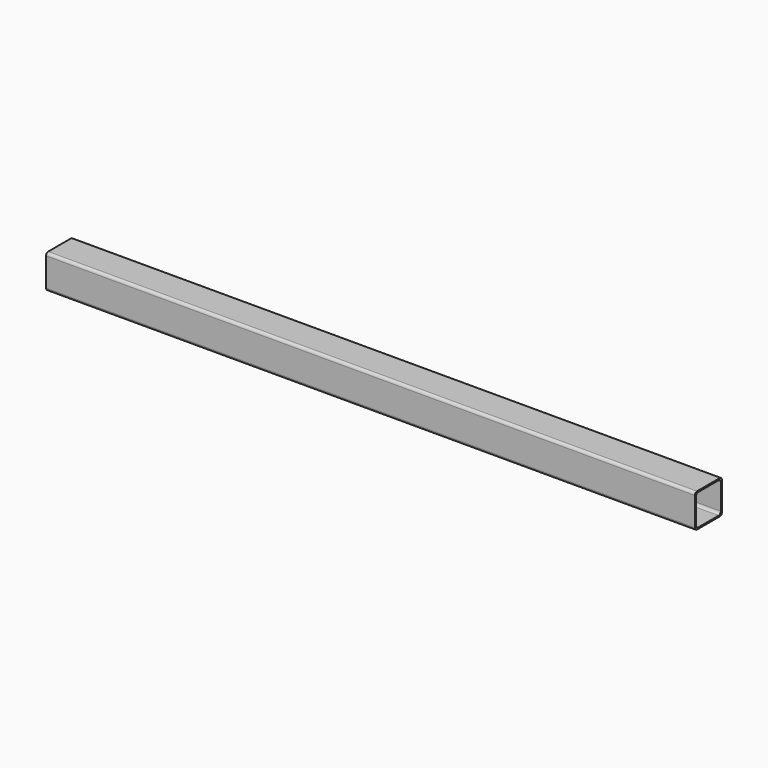
from build123d import *

# Parameters (mm, degrees)
F1_DEPTH = 240


with BuildPart() as f1:
    # F0 (on Right) → F1 (new body, symmetric)
    with BuildSketch(Plane.YZ):
        with BuildLine():
            ThreePointArc((12.5, 10.5), (11.914214, 11.914214), (10.5, 12.5))
            Line((10.5, 12.5), (-10.5, 12.5))
            ThreePointArc((-10.5, 12.5), (-11.914214, 11.914214), (-12.5, 10.5))
            Line((-12.5, 10.5), (-12.5, -10.5))
            ThreePointArc((-12.5, -10.5), (-11.914214, -11.914214), (-10.5, -12.5))
            Line((-10.5, -12.5), (10.5, -12.5))
            ThreePointArc((10.5, -12.5), (11.914214, -11.914214), (12.5, -10.5))
            Line((12.5, -10.5), (12.5, 10.5))
        make_face()
        with BuildLine():
            Line((-9.5, 11.5), (9.5, 11.5))
            ThreePointArc((9.5, 11.5), (10.914214, 10.914214), (11.5, 9.5))
            Line((11.5, 9.5), (11.5, -9.5))
            ThreePointArc((11.5, -9.5), (10.914214, -10.914214), (9.5, -11.5))
            Line((9.5, -11.5), (-9.5, -11.5))
            ThreePointArc((-9.5, -11.5), (-10.914214, -10.914214), (-11.5, -9.5))
            Line((-11.5, -9.5), (-11.5, 9.5))
            ThreePointArc((-11.5, 9.5), (-10.914214, 10.914214), (-9.5, 11.5))
        make_face(mode=Mode.SUBTRACT)
    extrude(amount=F1_DEPTH, both=True)


solid = f1.part
